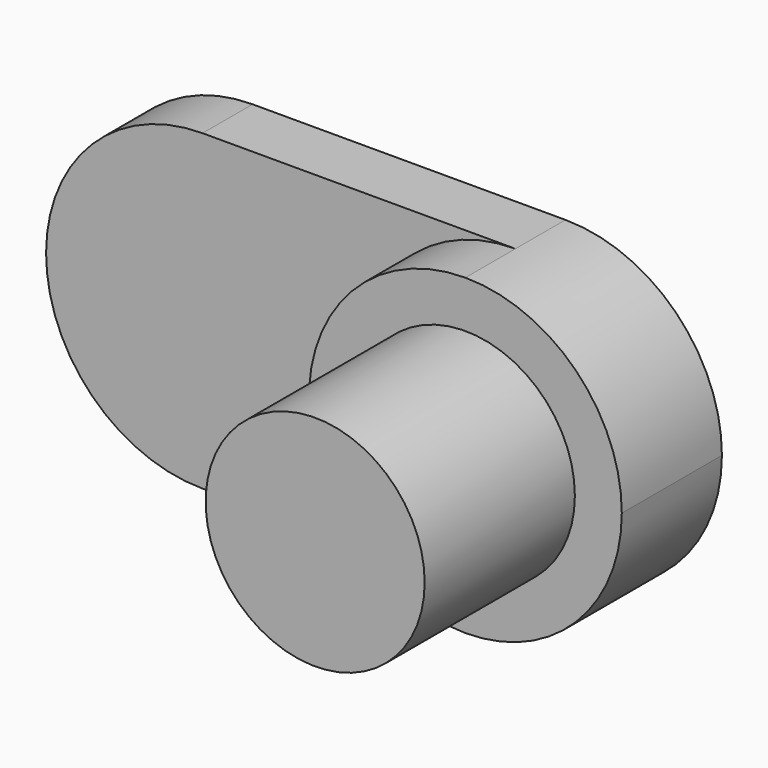
from build123d import *

# Parameters (mm, degrees)
F1_DEPTH = 10
F0_R     = 17.5
F2_DEPTH = 50
F3_DEPTH = 20


with BuildPart() as f1:
    # F0 (on Front) → F1 (new body)
    with BuildSketch(Plane.XZ):
        with BuildLine():
            Line((27.51959, 20.872951), (-22.48041, 20.872951))
            ThreePointArc((-22.48041, 20.872951), (-40.15808, 13.550621), (-47.48041, -4.127049))
            ThreePointArc((-47.48041, -4.127049), (-40.15808, -21.804718), (-22.48041, -29.127049))
            Line((-22.48041, -29.127049), (27.51959, -29.127049))
            ThreePointArc((27.51959, -29.127049), (2.51959, -4.127049), (27.51959, 20.872951))
        make_face()
    extrude(amount=F1_DEPTH)



with BuildPart() as f2:
    # F0 (on Front) → F2 (new body)
    with BuildSketch(Plane.XZ):
        with Locations((27.51959, -4.127049)):
            Circle(F0_R)
    extrude(amount=F2_DEPTH)


with BuildPart() as f1_1:
    add(f1.part)

    add(f2.part)  # F3 merges F2
    # F0 (on Front) → F3 (join)
    with BuildSketch(Plane.XZ):
        with BuildLine():
            ThreePointArc((52.51959, -4.127049), (45.197259, 13.550621), (27.51959, 20.872951))
            ThreePointArc((27.51959, 20.872951), (2.51959, -4.127049), (27.51959, -29.127049))
            ThreePointArc((27.51959, -29.127049), (45.197259, -21.804718), (52.51959, -4.127049))
        make_face()
        with Locations((27.51959, -4.127049)):
            Circle(F0_R, mode=Mode.SUBTRACT)
    extrude(amount=F3_DEPTH)


solid = f1_1.part
